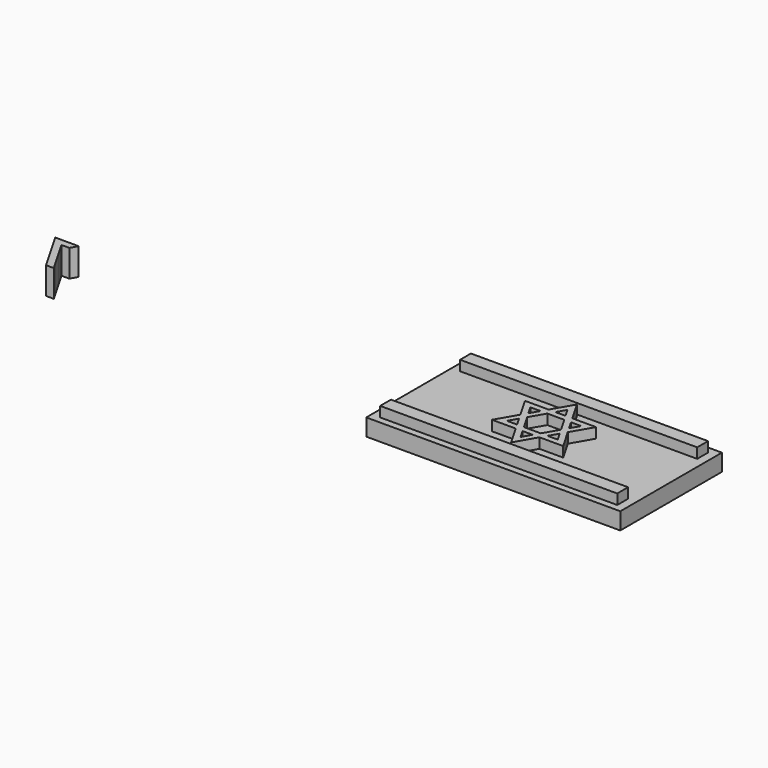
from build123d import *

# Parameters (mm, degrees)
F0_W     = 75
F0_H     = 37.5
F1_DEPTH = 5
F2_W     = 70
F2_H     = 4
F3_DEPTH = 8
F5_DEPTH = 8


with BuildPart() as f1:
    # F0 (on Top) → F1 (new body)
    with BuildSketch(Plane.XY):
        Rectangle(F0_W, F0_H)
    extrude(amount=F1_DEPTH)


with BuildPart() as f3:
    # F2 (on Top) → F3 (new body)
    with BuildSketch(Plane.XY):
        with Locations((0, 14.75)):
            Rectangle(F2_W, F2_H)
    extrude(amount=F3_DEPTH)


with BuildPart() as f3b:
    # F2 (on Top) → F3, piece 2 (new body)
    with BuildSketch(Plane.XY):
        with Locations((0, -14.75)):
            Rectangle(F2_W, F2_H)
    extrude(amount=F3_DEPTH)


with BuildPart() as f5:
    # F4 (on Top) → F5 (new body)
    with BuildSketch(Plane.XY):
        Polygon((-4.520908765, 4.3402844962), (-6.020908765, 1.7422082849), (-7.020908765, 0.0101574773), (-6.020908765, -1.7218933303), (-4.520908765, -4.3199695416), (-3.520908765, -6.0520203492), (-1.520908765, -6.0520203492), (1.479091235, -6.0520203492), (3.479091235, -6.0520203492), (4.479091235, -4.3199695416), (5.979091235, -1.7218933303), (6.979091235, 0.0101574773), (5.979091235, 1.7422082849), (4.479091235, 4.3402844962), (3.479091235, 6.0723353038), (1.479091235, 6.0723353038), (-1.520908765, 6.0723353038), (-3.520908765, 6.0723353038), align=None)
        Polygon((2.479091235, 4.3402844962), (2.8686255467, 3.6655912771), (4.979091235, 0.0101574773), (2.479091235, -4.3199695416), (-2.520908765, -4.3199695416), (-5.020908765, 0.0101574773), (-2.520908765, 4.3402844962), align=None, mode=Mode.SUBTRACT)
        Polygon((-6.020908765, -1.7218933303), (-7.020908765, 0.0101574773), (-10.520908765, -6.0520203492), (-3.520908765, -6.0520203492), (-4.520908765, -4.3199695416), (-7.520908765, -4.3199695416), align=None)
        Polygon((-4.520908765, 4.3402844962), (-6.020908765, 1.7422082849), (-7.020908765, 0.0101574773), (-6.020908765, -1.7218933303), (-4.520908765, -4.3199695416), (-3.520908765, -6.0520203492), (-1.520908765, -6.0520203492), (1.479091235, -6.0520203492), (3.479091235, -6.0520203492), (4.479091235, -4.3199695416), (5.979091235, -1.7218933303), (6.979091235, 0.0101574773), (5.979091235, 1.7422082849), (4.479091235, 4.3402844962), (3.479091235, 6.0723353038), (1.479091235, 6.0723353038), (-1.520908765, 6.0723353038), (-3.520908765, 6.0723353038), align=None)
        Polygon((2.479091235, 4.3402844962), (2.8686255467, 3.6655912771), (4.979091235, 0.0101574773), (2.479091235, -4.3199695416), (-2.520908765, -4.3199695416), (-5.020908765, 0.0101574773), (-2.520908765, 4.3402844962), align=None, mode=Mode.SUBTRACT)
        Polygon((-0.020908765, 12.1345131303), (-3.520908765, 6.0723353038), (-1.520908765, 6.0723353038), (-0.020908765, 8.6704115151), (1.479091235, 6.0723353038), (3.479091235, 6.0723353038), align=None)
        Polygon((10.479091235, 6.0723353038), (3.479091235, 6.0723353038), (4.479091235, 4.3402844962), (7.479091235, 4.3402844962), (5.979091235, 1.7422082849), (6.979091235, 0.0101574773), align=None)
        Polygon((-4.520908765, 4.3402844962), (-6.020908765, 1.7422082849), (-7.020908765, 0.0101574773), (-6.020908765, -1.7218933303), (-4.520908765, -4.3199695416), (-3.520908765, -6.0520203492), (-1.520908765, -6.0520203492), (1.479091235, -6.0520203492), (3.479091235, -6.0520203492), (4.479091235, -4.3199695416), (5.979091235, -1.7218933303), (6.979091235, 0.0101574773), (5.979091235, 1.7422082849), (4.479091235, 4.3402844962), (3.479091235, 6.0723353038), (1.479091235, 6.0723353038), (-1.520908765, 6.0723353038), (-3.520908765, 6.0723353038), align=None)
        Polygon((2.479091235, 4.3402844962), (2.8686255467, 3.6655912771), (4.979091235, 0.0101574773), (2.479091235, -4.3199695416), (-2.520908765, -4.3199695416), (-5.020908765, 0.0101574773), (-2.520908765, 4.3402844962), align=None, mode=Mode.SUBTRACT)
        Polygon((-1.520908765, -6.0520203492), (-3.520908765, -6.0520203492), (-0.020908765, -12.1141981757), (3.479091235, -6.0520203492), (1.479091235, -6.0520203492), (-0.020908765, -8.6500965606), align=None)
        Polygon((-7.020908765, 0.0101574773), (-6.020908765, 1.7422082849), (-7.520908765, 4.3402844962), (-4.520908765, 4.3402844962), (-3.520908765, 6.0723353038), (-10.520908765, 6.0723353038), align=None)
        Polygon((4.479091235, -4.3199695416), (3.479091235, -6.0520203492), (10.479091235, -6.0520203492), (6.979091235, 0.0101574773), (5.979091235, -1.7218933303), (7.479091235, -4.3199695416), align=None)
    extrude(amount=F5_DEPTH)


with BuildPart() as f5b:
    # F4 (on Top) → F5, piece 2 (new body)
    with BuildSketch(Plane.XY):
        Polygon((-146.0028003454, 2.1026803896), (-142.5308886766, -3.9108470201), (-141.3923103412, -1.9387714947), (-142.5589770079, 0.0819544474), (-140.2256436745, 0.0819544474), (-139.0589770079, 2.1026803896), align=None)
        Polygon((-141.3923103412, -1.9387714947), (-142.5308886766, -3.9108470201), (-141.2967720655, -6.0483996931), (-140.15819373, -4.0763241677), align=None)
        Polygon((-140.15819373, -4.0763241677), (-141.2967720655, -6.0483996931), (-140.1720452363, -7.9964837059), (-137.8948885654, -7.9964837059), align=None)
        Polygon((-140.1720452363, -7.9964837059), (-139.0028003454, -10.0216752634), (-136.7256436745, -10.0216752634), (-137.8948885654, -7.9964837059), align=None)
    extrude(amount=F5_DEPTH)


solid = Compound([f1.part, f3.part, f3b.part, f5.part, f5b.part])
